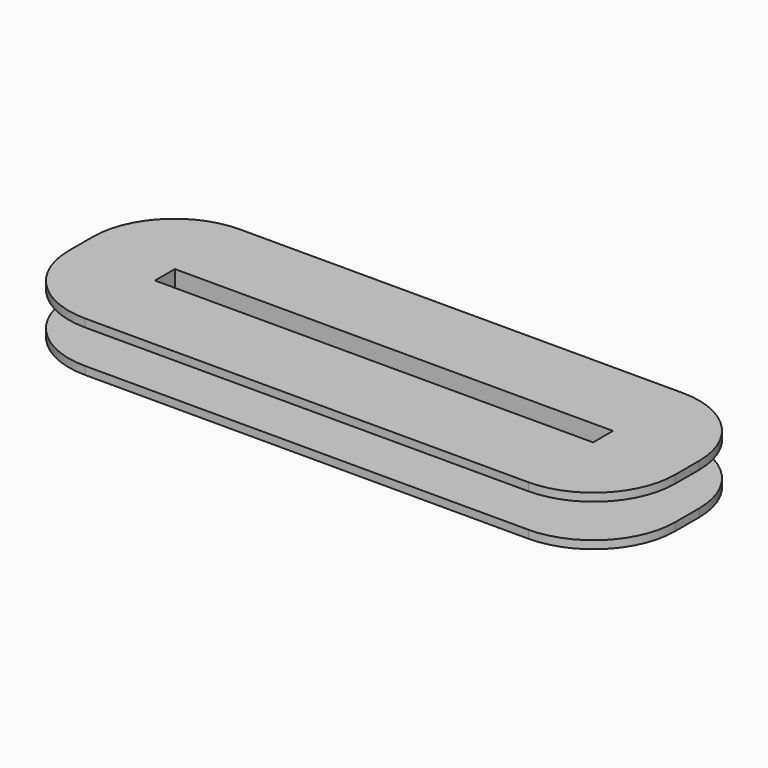
from build123d import *

# Parameters (mm, degrees)
F0_W     = 58.42
F0_H     = 5.715
F0_W_2   = 55.88
F0_H_2   = 3.175
F1_DEPTH = 6.35
F2_DEPTH = 5.334
F3_DEPTH = 1.016


with BuildPart() as f1:
    # F0 (on Top) → F1 (new body)
    with BuildSketch(Plane.XY):
        with BuildLine():
            Line((56.1975, 13.9065), (-0.3175, 13.9065))
            ThreePointArc((-0.3175, 13.9065), (-7.68131, 10.85631), (-10.7315, 3.4925))
            Line((-10.7315, 3.4925), (-10.7315, -0.3175))
            ThreePointArc((-10.7315, -0.3175), (-7.68131, -7.68131), (-0.3175, -10.7315))
            Line((-0.3175, -10.7315), (56.1975, -10.7315))
            ThreePointArc((56.1975, -10.7315), (63.56131, -7.68131), (66.6115, -0.3175))
            Line((66.6115, -0.3175), (66.6115, 3.4925))
            ThreePointArc((66.6115, 3.4925), (63.56131, 10.85631), (56.1975, 13.9065))
        make_face()
        with Locations((27.94, 1.5875)):
            Rectangle(F0_W, F0_H, mode=Mode.SUBTRACT)
        with Locations((27.94, 1.5875)):
            Rectangle(F0_W, F0_H)
        with Locations((27.94, 1.5875)):
            Rectangle(F0_W_2, F0_H_2, mode=Mode.SUBTRACT)
    extrude(amount=-F1_DEPTH)

    # F0 (on Top) → F2 (cut)
    with BuildSketch(Plane.XY):
        with BuildLine():
            Line((56.1975, 13.9065), (-0.3175, 13.9065))
            ThreePointArc((-0.3175, 13.9065), (-7.68131, 10.85631), (-10.7315, 3.4925))
            Line((-10.7315, 3.4925), (-10.7315, -0.3175))
            ThreePointArc((-10.7315, -0.3175), (-7.68131, -7.68131), (-0.3175, -10.7315))
            Line((-0.3175, -10.7315), (56.1975, -10.7315))
            ThreePointArc((56.1975, -10.7315), (63.56131, -7.68131), (66.6115, -0.3175))
            Line((66.6115, -0.3175), (66.6115, 3.4925))
            ThreePointArc((66.6115, 3.4925), (63.56131, 10.85631), (56.1975, 13.9065))
        make_face()
        with Locations((27.94, 1.5875)):
            Rectangle(F0_W, F0_H, mode=Mode.SUBTRACT)
    extrude(amount=-F2_DEPTH, mode=Mode.SUBTRACT)

    # F0 (on Top) → F3 (join)
    with BuildSketch(Plane.XY):
        with BuildLine():
            Line((56.1975, 13.9065), (-0.3175, 13.9065))
            ThreePointArc((-0.3175, 13.9065), (-7.68131, 10.85631), (-10.7315, 3.4925))
            Line((-10.7315, 3.4925), (-10.7315, -0.3175))
            ThreePointArc((-10.7315, -0.3175), (-7.68131, -7.68131), (-0.3175, -10.7315))
            Line((-0.3175, -10.7315), (56.1975, -10.7315))
            ThreePointArc((56.1975, -10.7315), (63.56131, -7.68131), (66.6115, -0.3175))
            Line((66.6115, -0.3175), (66.6115, 3.4925))
            ThreePointArc((66.6115, 3.4925), (63.56131, 10.85631), (56.1975, 13.9065))
        make_face()
        with Locations((27.94, 1.5875)):
            Rectangle(F0_W, F0_H, mode=Mode.SUBTRACT)
    extrude(amount=-F3_DEPTH)


solid = f1.part
